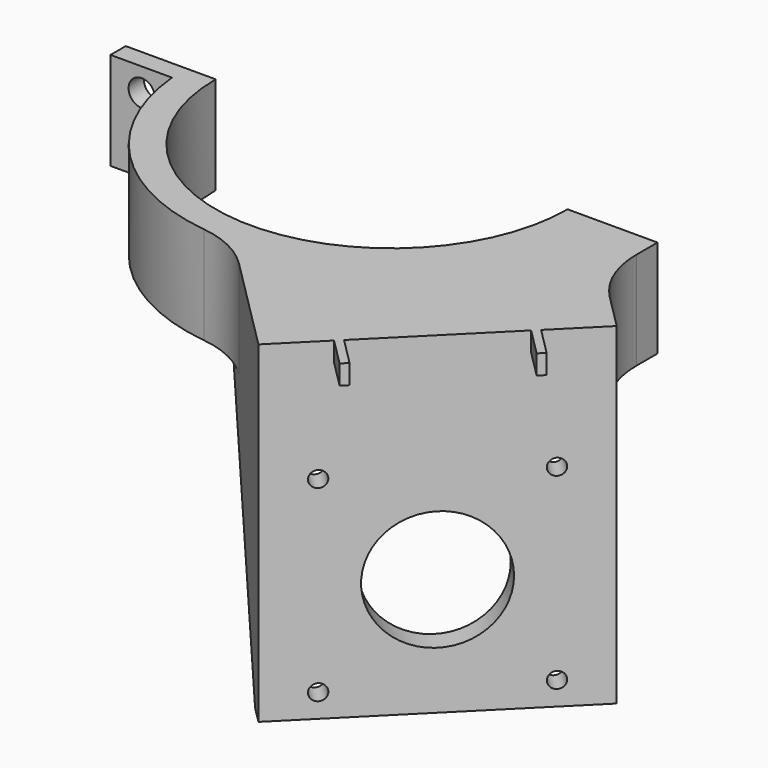
from build123d import *

# Parameters (mm, degrees)
F1_DEPTH  = 25
F3_DEPTH  = 60
F4_R      = 15.3734931233
F5_DEPTH  = 131.1684809697
F8_DEPTH  = 6
F10_DEPTH = 6
F11_R     = 25
F12_R     = 25
F14_D     = 5.1054
F14_DEPTH = 25
F14_TIP   = 1.5338169022
F15_D     = 6.7564
F15_DEPTH = 25
F15_TIP   = 2.0298273432
F16_D     = 4.1
F16_DEPTH = 25
F16_TIP   = 1.231764269
F18_DEPTH = 5


with BuildPart() as f1:
    # F0 (on Top) → F1 (new body)
    with BuildSketch(Plane.XY):
        with BuildLine():
            ThreePointArc((45, 0), (0, -45), (-45, 0))
            Line((-45, 0), (-68, 0))
            Line((-68, 0), (-68, -4.880737979))
            Line((-68, -4.880737979), (-52.2726352577, -4.880737979))
            ThreePointArc((-52.2726352577, -4.880737979), (-31.783629524, -41.7857738265), (9.2519405818, -51.678347453))
            Line((9.2519405818, -51.678347453), (37.5362118293, -79.9626187004))
            Line((37.5362118293, -79.9626187004), (79.9626187004, -37.5362118293))
            Line((79.9626187004, -37.5362118293), (68, -25.5735931288))
            Line((68, -25.5735931288), (68, 0))
            Line((68, 0), (45, 0))
        make_face()
    extrude(amount=F1_DEPTH)

    # F2 (on face) → F3 (join)
    with BuildSketch(Plane(origin=(0, 0, 0), x_dir=(1, 0, 0), z_dir=(0, 0, -1))):
        Polygon((79.9626187004, 37.5362118293), (37.5362118293, 79.9626187004), (33.2935711421, 75.7199780133), (75.7199780133, 33.2935711421), align=None)
    extrude(amount=F3_DEPTH)

    # F4 (on face) → F5 (cut, through all)
    with BuildSketch(Plane(origin=(58.7494152648, -58.7494152648, 0), x_dir=(0.7071067812, 0.7071067812, 0), z_dir=(0.7071067812, -0.7071067812, 0))):
        with Locations((0, -30)):
            Circle(F4_R)
    extrude(amount=-F5_DEPTH, mode=Mode.SUBTRACT)

    # F7 (on face) → F8 (join)
    with BuildSketch(Plane(origin=(-21.2132034356, -21.2132034356, 0), x_dir=(0.7071067812, -0.7071067812, 0), z_dir=(-0.7071067812, -0.7071067812, 0))):
        Polygon((83.084219849, -60), (83.084219849, 25), (36.7878936231, 25), (36.7878936231, 0), (77.084219849, -60), align=None)
    extrude(amount=F8_DEPTH)

    # F9 (on face) → F10 (join)
    with BuildSketch(Plane(origin=(21.2132034356, 21.2132034356, 0), x_dir=(-0.7071067812, 0.7071067812, 0), z_dir=(0.7071067812, 0.7071067812, 0))):
        Polygon((-83.084219849, 25), (-83.084219849, -60), (-77.084219849, -60), (-36.1771658063, 0), (-36.1771658063, 25), align=None)
    extrude(amount=F10_DEPTH)

    # F11
    f11_edges = [f1.edges().sort_by_distance(p)[0] for p in [
        (1.564981, -52.476669, 12.5),
    ]]
    fillet(f11_edges, radius=F11_R)

    # F12
    f12_edges = [f1.edges().sort_by_distance(p)[0] for p in [
        (68, -17.088312, 12.5),
    ]]
    fillet(f12_edges, radius=F12_R)

    # F14
    with Locations(Plane(origin=(0, 0, 0), x_dir=(-1, 0, 0), z_dir=(0, 1, 0))):
        with Locations((-60, 6), (-60, 19)):
            Hole(F14_D / 2, depth=F14_DEPTH)
            with Locations((0, 0, -(F14_DEPTH + F14_TIP / 2))):  # 118° drill point
                Cone(0, F14_D / 2, F14_TIP, mode=Mode.SUBTRACT)

    # F15
    with Locations(Plane(origin=(0, 0, 0), x_dir=(-1, 0, 0), z_dir=(0, 1, 0))):
        with Locations((60, 6), (60, 19)):
            Hole(F15_D / 2, depth=F15_DEPTH)
            with Locations((0, 0, -(F15_DEPTH + F15_TIP / 2))):  # 118° drill point
                Cone(0, F15_D / 2, F15_TIP, mode=Mode.SUBTRACT)

    # F16
    with Locations(Plane(origin=(58.7494152648, -58.7494152648, 0), x_dir=(0.7071067812, 0.7071067812, 0), z_dir=(0.7071067812, -0.7071067812, 0))):
        with Locations((-24, -6), (24, -6), (24, -54), (-24, -54)):
            Hole(F16_D / 2, depth=F16_DEPTH)
            with Locations((0, 0, -(F16_DEPTH + F16_TIP / 2))):  # 118° drill point
                Cone(0, F16_D / 2, F16_TIP, mode=Mode.SUBTRACT)

    # F17 (on face) → F18 (join)
    with BuildSketch(Plane.XY.offset(25)):
        Polygon((72.0430227512, -45.4558077785), (79.114090563, -52.5268755904), (80.5283041254, -51.112662028), (73.4572363135, -44.0415942162), align=None)
        Polygon((51.112662028, -80.5283041254), (52.5268755904, -79.114090563), (45.4558077785, -72.0430227512), (44.0415942162, -73.4572363135), align=None)
    extrude(amount=-F18_DEPTH)


solid = f1.part
